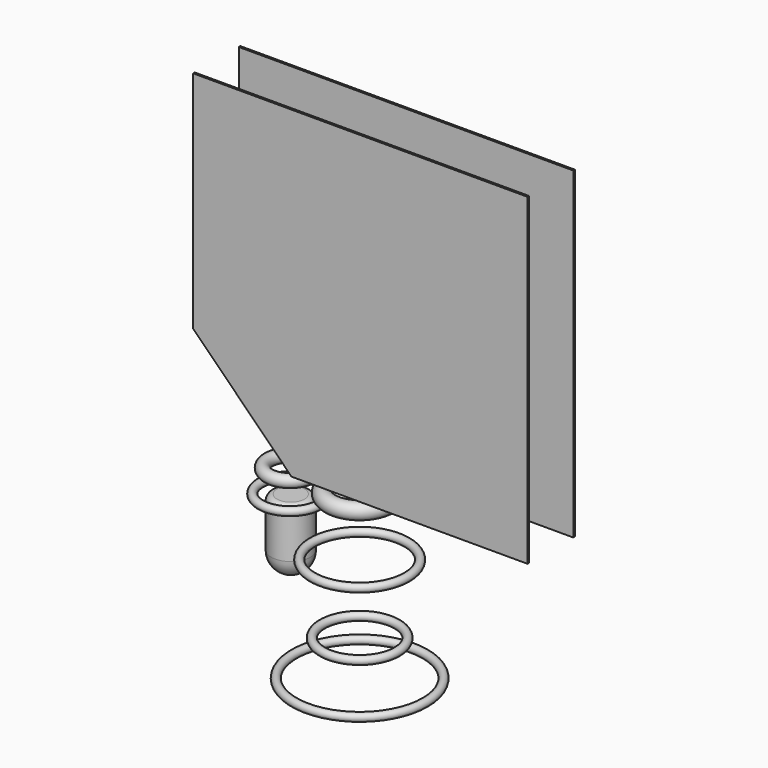
from build123d import *

# Parameters (mm, degrees)
CYLINDER_R                           = 100
CYLINDER_DEPTH                       = 350
FILLET_1_R                           = 100
FILLET_2_R                           = 30
TORUS_R                              = 20
TORUS001_R                           = 20
TORUS002_R                           = 20
TORUS003_R                           = 20
TORUS004_R                           = 30
TORUS005_R                           = 40
EXTRUDE_DEPTH                        = 10
EXTRUDE_ONTO_SKETCH010_ROLL_ANGLE    = 90
EXTRUDE001_DEPTH                     = 10
EXTRUDE001_ONTO_SKETCH010_ROLL_ANGLE = 90


with BuildPart() as methane_pump:
    # Cylinder → Cylinder (new body)
    with BuildSketch(Plane(origin=(-350, 0, 1730), x_dir=(1, 0, 0), z_dir=(0, 0, 1))):
        Circle(CYLINDER_R)
    extrude(amount=CYLINDER_DEPTH)

    # Fillet 1
    fillet_1_edges = [methane_pump.edges().sort_by_distance(p)[0] for p in [
        (-450, 0, 1730),
    ]]
    fillet(fillet_1_edges, radius=FILLET_1_R)

    # Fillet 2
    fillet_2_edges = [methane_pump.edges().sort_by_distance(p)[0] for p in [
        (-450, 0, 2080),
    ]]
    fillet(fillet_2_edges, radius=FILLET_2_R)


with BuildPart() as fuel_torus:
    # Torus → Torus (revolve)
    with BuildSketch(Plane(origin=(0, 0, 1370), x_dir=(1, 0, 0), z_dir=(0, -1, 0))):
        with Locations((333, 0)):
            Circle(TORUS_R)
    revolve(axis=Axis((0, 0, 1370), (0, 0, 1)))


with BuildPart() as gimbal_torus:
    # Torus001 → Torus001 (revolve)
    with BuildSketch(Plane(origin=(0, 0, 1550), x_dir=(1, 0, 0), z_dir=(0, -1, 0))):
        with Locations((190, 0)):
            Circle(TORUS001_R)
    revolve(axis=Axis((0, 0, 1550), (0, 0, 1)))


with BuildPart() as obj1:
    # Torus002 → Torus002 (revolve)
    with BuildSketch(Plane(origin=(0, 0, 1900), x_dir=(1, 0, 0), z_dir=(0, -1, 0))):
        with Locations((240, 0)):
            Circle(TORUS002_R)
    revolve(axis=Axis((0, 0, 1900), (0, 0, 1)))


with BuildPart() as pump_torus1:
    # Torus003 → Torus003 (revolve)
    with BuildSketch(Plane(origin=(-354, 0, 2080), x_dir=(1, 0, 0), z_dir=(0, -1, 0))):
        with Locations((150, 0)):
            Circle(TORUS003_R)
    revolve(axis=Axis((-354, 0, 2080), (0, 0, 1)))


with BuildPart() as pump_torus2:
    # Torus004 → Torus004 (revolve)
    with BuildSketch(Plane(origin=(-354, 0, 2196), x_dir=(1, 0, 0), z_dir=(0, -1, 0))):
        with Locations((110, 0)):
            Circle(TORUS004_R)
    revolve(axis=Axis((-354, 0, 2196), (0, 0, 1)))


with BuildPart() as injector_torus:
    # Torus005 → Torus005 (revolve)
    with BuildSketch(Plane(origin=(0, 0, 2199), x_dir=(1, 0, 0), z_dir=(0, -1, 0))):
        with Locations((150, 0)):
            Circle(TORUS005_R)
    revolve(axis=Axis((0, 0, 2199), (0, 0, 1)))


with BuildPart() as extrude_body:
    # Sketch010 as drawn → Extrude (new)
    with BuildSketch(Plane.XY):
        Polygon((-226.59781, 2259.074386), (973.714863, 2259.074386), (973.714863, 3900.999756), (-726.285137, 3900.999756), (-726.285137, 2758.761712), align=None)
    extrude(amount=EXTRUDE_DEPTH)


with BuildPart() as extrude_body_1:
    # Extrude onto Sketch010 roll: moved
    add(extrude_body.part.rotate(Axis((0, 0, 0), (1, 0, 0)), EXTRUDE_ONTO_SKETCH010_ROLL_ANGLE))


with BuildPart() as extrude_body_2:
    # Extrude onto Sketch010 placement: moved
    add(extrude_body_1.part)


with BuildPart() as extrude_body_3:
    # Extrude placement: moved
    add(extrude_body_2.part.moved(Location((0, 150, 0))))


with BuildPart() as extrude001:
    # Sketch010 as drawn → Extrude001 (new)
    with BuildSketch(Plane.XY):
        Polygon((-226.59781, 2259.074386), (973.714863, 2259.074386), (973.714863, 3900.999756), (-726.285137, 3900.999756), (-726.285137, 2758.761712), align=None)
    extrude(amount=EXTRUDE001_DEPTH)


with BuildPart() as extrude001_1:
    # Extrude001 onto Sketch010 roll: moved
    add(extrude001.part.rotate(Axis((0, 0, 0), (1, 0, 0)), EXTRUDE001_ONTO_SKETCH010_ROLL_ANGLE))


with BuildPart() as extrude001_2:
    # Extrude001 onto Sketch010 placement: moved
    add(extrude001_1.part)


with BuildPart() as extrude001_3:
    # Extrude001 placement: moved
    add(extrude001_2.part.moved(Location((0, -140, 0))))


solid = Compound([methane_pump.part, fuel_torus.part, gimbal_torus.part, obj1.part, pump_torus1.part, pump_torus2.part, injector_torus.part, extrude_body_3.part, extrude001_3.part])
